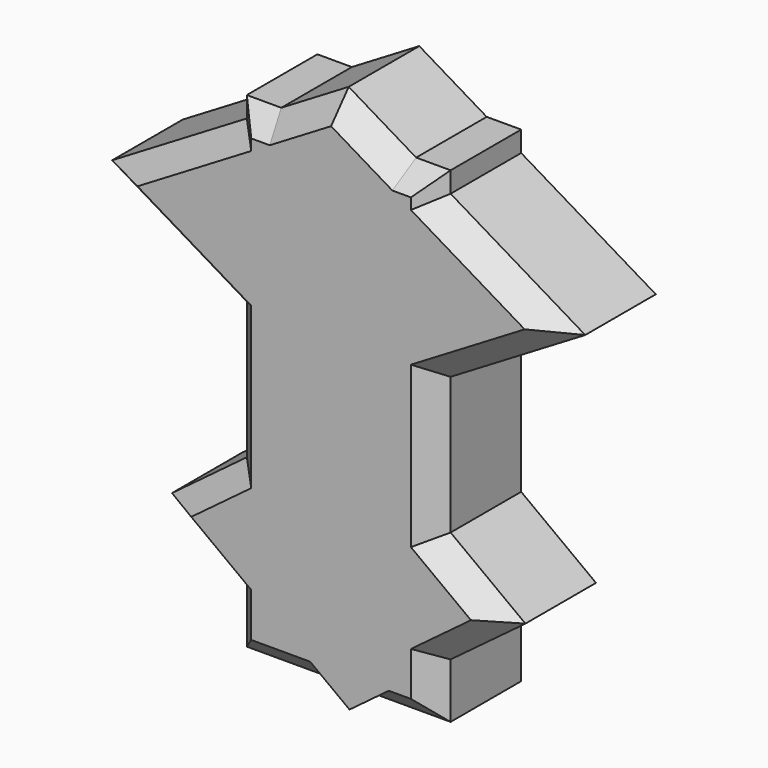
from build123d import *

# Parameters (mm, degrees)
F0_W     = 46.9391979277
F0_H     = 111.8616014719
F3_DEPTH = 25.4
F4_DEPTH = 25.4
F5_DEPTH = 25.4
F6_SIZE  = 5.08


with BuildPart() as f3:
    # F0 (on Front) → F3 (new body)
    with BuildSketch(Plane.XZ):
        Rectangle(F0_W, F0_H)
    extrude(amount=F3_DEPTH)

    # F1 (on face) → F4 (join)
    with BuildSketch(Plane.XZ):
        Polygon((-54.4846235865, 32.6140428748), (0, 0), (54.4846235865, 32.6140428748), (0, 65.2280857495), align=None)
    extrude(amount=F4_DEPTH)

    # F2 (on Front) → F5 (join)
    with BuildSketch(Plane.XZ):
        Polygon((-40.705913781, -30.3919164129), (0, -60.7838328259), (40.705913781, -30.3919164129), (0, 0), align=None)
    extrude(amount=F5_DEPTH)

    # F6
    f6_edges = [f3.edges().sort_by_distance(p)[0] for p in [
        (-38.977111, -25.4, 23.331375),
        (-23.469599, -25.4, -1.737102),
        (-32.087756, -25.4, -23.957414),
        (-32.087756, -25.4, -36.826419),
        (-23.469599, -25.4, -49.595861),
        (-14.984794, -25.4, -55.930801),
        (-3.249994, -25.4, -58.357317),
        (14.984794, -25.4, -55.930801),
        (23.469599, -25.4, -49.595861),
        (32.087756, -25.4, -36.826419),
        (32.087756, -25.4, -23.957414),
        (23.469599, -25.4, -1.737102),
        (38.977111, -25.4, 23.331375),
        (38.977111, -25.4, 41.896711),
        (23.469599, -25.4, 53.55509),
        (19.500765, -25.4, 55.930801),
        (7.765966, -25.4, 60.579443),
        (-7.765966, -25.4, 60.579443),
        (-19.500765, -25.4, 55.930801),
        (-23.469599, -25.4, 53.55509),
        (-38.977111, -25.4, 41.896711),
    ]]
    chamfer(f6_edges, length=F6_SIZE)


solid = f3.part
